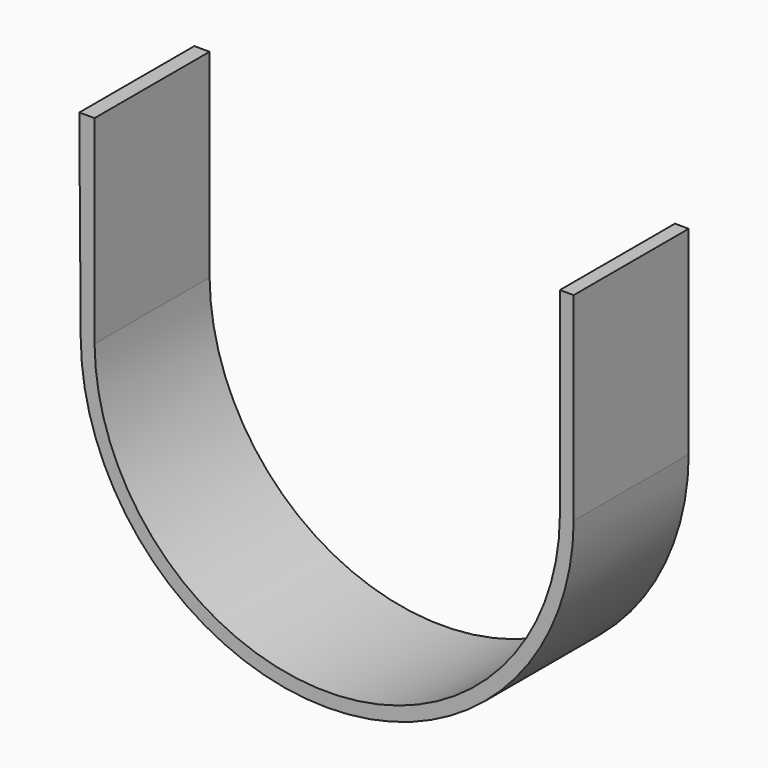
from build123d import *

# Parameters (mm, degrees)
F2_DEPTH = 22.5


with BuildPart() as f2:
    # F0 (on Front) → F2 (new body, symmetric)
    with BuildSketch(Plane.XZ):
        with BuildLine():
            Line((-77.5952695245, 61.5998449805), (-77.1319480974, -0.5747824433))
            ThreePointArc((-77.1319480974, -0.5747824433), (0, -77.1340896891), (77.1319480974, -0.5747824433))
            Line((77.1319480974, -0.5747824433), (77.1319480974, 61.5998449805))
            Line((77.1319480974, 61.5998449805), (72.8131596211, 61.5998449805))
            Line((72.8131596211, 61.5998449805), (72.8131596211, -0.5747824433))
            ThreePointArc((72.8131596211, -0.5747824433), (0, -72.8154282338), (-72.8131596211, -0.5747824433))
            Line((-72.8131596211, -0.5747824433), (-72.8131596211, 61.5998449805))
            Line((-72.8131596211, 61.5998449805), (-77.5952695245, 61.5998449805))
        make_face()
    extrude(amount=F2_DEPTH, both=True)


solid = f2.part
